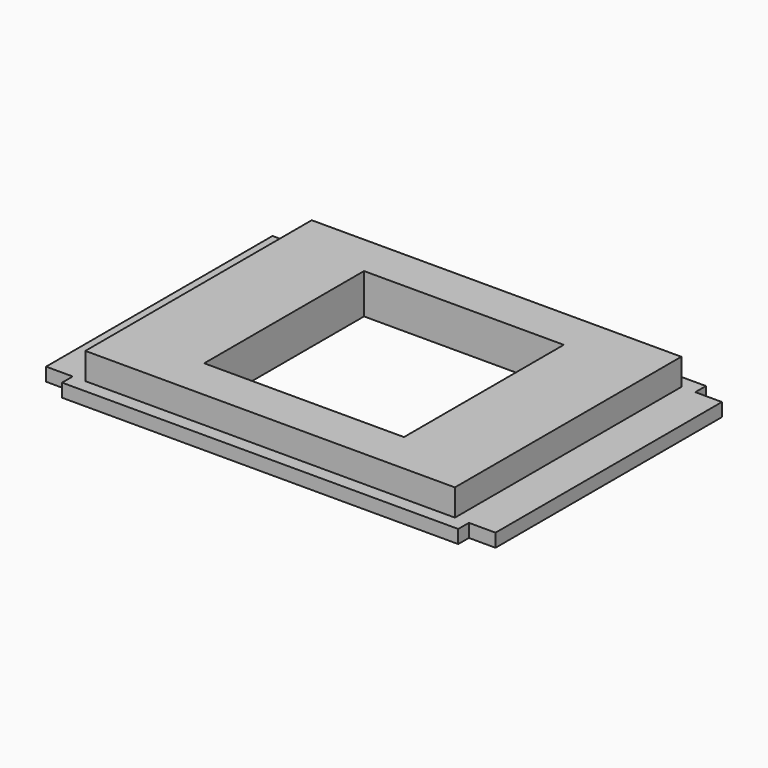
from build123d import *

# Parameters (mm, degrees)
F0_W     = 38.1
F0_H     = 38.1
F1_DEPTH = 5.08
F2_DEPTH = 2.54
F3_DEPTH = 2.54
F0_W_2   = 5.08
F0_H_2   = 53.975
F4_DEPTH = 2.54


with BuildPart() as f1:
    # F0 (on Top) → F1 (new body)
    with BuildSketch(Plane.XY):
        Polygon((-35.372612, 26.9875), (-35.372612, 0), (-35.372612, -26.9875), (-0.130112, -26.9875), (35.112388, -26.9875), (35.112388, 0), (35.112388, 26.9875), (-0.130112, 26.9875), align=None)
        Rectangle(F0_W, F0_H, mode=Mode.SUBTRACT)
    extrude(amount=F1_DEPTH)

    # F0 (on Top) → F2 (join)
    with BuildSketch(Plane.XY):
        Polygon((-35.372612, 26.9875), (-35.372612, 0), (-35.372612, -26.9875), (-0.130112, -26.9875), (35.112388, -26.9875), (35.112388, 0), (35.112388, 26.9875), (-0.130112, 26.9875), align=None)
        Rectangle(F0_W, F0_H, mode=Mode.SUBTRACT)
    extrude(amount=-F2_DEPTH)

    # F0 (on Top) → F3 (join)
    with BuildSketch(Plane.XY):
        Polygon((-37.7825, -26.9875), (-37.7825, -29.5275), (37.7825, -29.5275), (37.7825, -26.9875), (37.7825, 26.9875), (37.7825, 29.5275), (-37.7825, 29.5275), (-37.7825, 26.9875), align=None)
        Polygon((-35.372612, -26.9875), (-35.372612, 0), (-35.372612, 26.9875), (-0.130112, 26.9875), (35.112388, 26.9875), (35.112388, 0), (35.112388, -26.9875), (-0.130112, -26.9875), align=None, mode=Mode.SUBTRACT)
    extrude(amount=-F3_DEPTH)

    # F0 (on Top) → F4 (join)
    with BuildSketch(Plane.XY):
        with Locations((-40.3225, 0)):
            Rectangle(F0_W_2, F0_H_2)
        with Locations((40.3225, 0)):
            Rectangle(F0_W_2, F0_H_2)
    extrude(amount=-F4_DEPTH)


solid = f1.part
